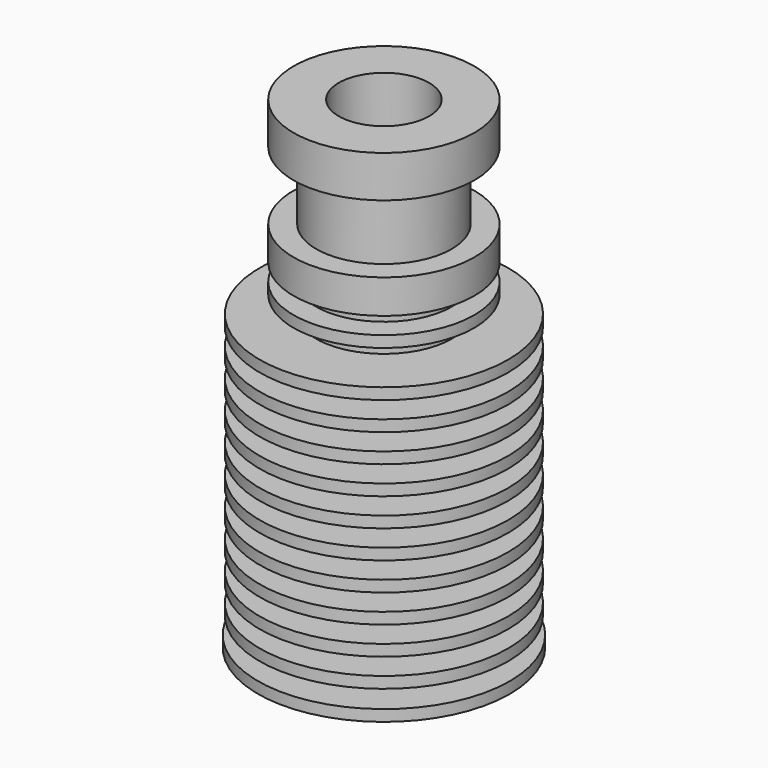
from build123d import *

# Parameters (mm, degrees)
F2_W           = 5
F2_H           = 6
F2_H_2         = 1.5
F4_W           = 8
F4_H           = 1.5
F4_W_2         = 8.1
F4_W_3         = 8.2
F4_W_4         = 8.3
F4_W_5         = 8.4
F4_W_6         = 8.5
F4_W_7         = 8.6
F4_W_8         = 8.7
F4_W_9         = 8.8
F4_W_10        = 8.9
F9_D           = 6
F9_DEPTH       = 10
F9_CSINK_D     = 7
F9_CSINK_ANGLE = 90


with BuildPart() as f1:
    # F0 (on Front) → F1 (revolve)
    with BuildSketch(Plane.XZ):
        Polygon((0, 42.7), (0, 0), (11.15, 0), (11.15, 1), (11, 1), (11, 26), (8, 26), (8, 42.7), align=None)
    revolve(axis=Axis((0, 0, 21.35), (0, 0, 1)))

    # F2 (on Front) → F3 (revolve, cut)
    with BuildSketch(Plane.XZ):
        with Locations((8.5, 36)):
            Rectangle(F2_W, F2_H)
        with Locations((8.5, 29.25)):
            Rectangle(F2_W, F2_H_2)
        with Locations((8.5, 26.75)):
            Rectangle(F2_W, F2_H_2)
    revolve(axis=Axis((0, 0, 22.5), (0, 0, 1)), mode=Mode.SUBTRACT)

    # F4 (on Front) → F5 (revolve, cut)
    with BuildSketch(Plane.XZ):
        with Locations((11, 1.75)):
            Rectangle(F4_W, F4_H)
        with Locations((10.95, 4.25)):
            Rectangle(F4_W_2, F4_H)
        with Locations((10.9, 6.75)):
            Rectangle(F4_W_3, F4_H)
        with Locations((10.85, 9.25)):
            Rectangle(F4_W_4, F4_H)
        with Locations((10.8, 11.75)):
            Rectangle(F4_W_5, F4_H)
        with Locations((10.75, 14.25)):
            Rectangle(F4_W_6, F4_H)
        with Locations((10.7, 16.75)):
            Rectangle(F4_W_7, F4_H)
        with Locations((10.65, 19.25)):
            Rectangle(F4_W_8, F4_H)
        with Locations((10.6, 21.75)):
            Rectangle(F4_W_9, F4_H)
        with Locations((10.55, 24.25)):
            Rectangle(F4_W_10, F4_H)
    revolve(axis=Axis((0, 0, 13.092068), (0, 0, 1)), mode=Mode.SUBTRACT)

    # F6 (on Front) → F7 (revolve, cut)
    with BuildSketch(Plane.XZ):
        Polygon((0, 42.7), (0, 0), (3, 0), (3, 15.1), (2.1, 15.640775), (2.1, 35.058365), (4, 36.2), (4, 42.7), align=None)
    revolve(axis=Axis((0, 0, 21.35), (0, 0, 1)), mode=Mode.SUBTRACT)

    # F9
    with Locations(Plane(origin=(0, 0, 0), x_dir=(1, 0, 0), z_dir=(0, 0, -1))):
        with Locations((0, 0)):
            CounterSinkHole(F9_D / 2, F9_CSINK_D / 2, depth=F9_DEPTH, counter_sink_angle=F9_CSINK_ANGLE)


solid = f1.part
